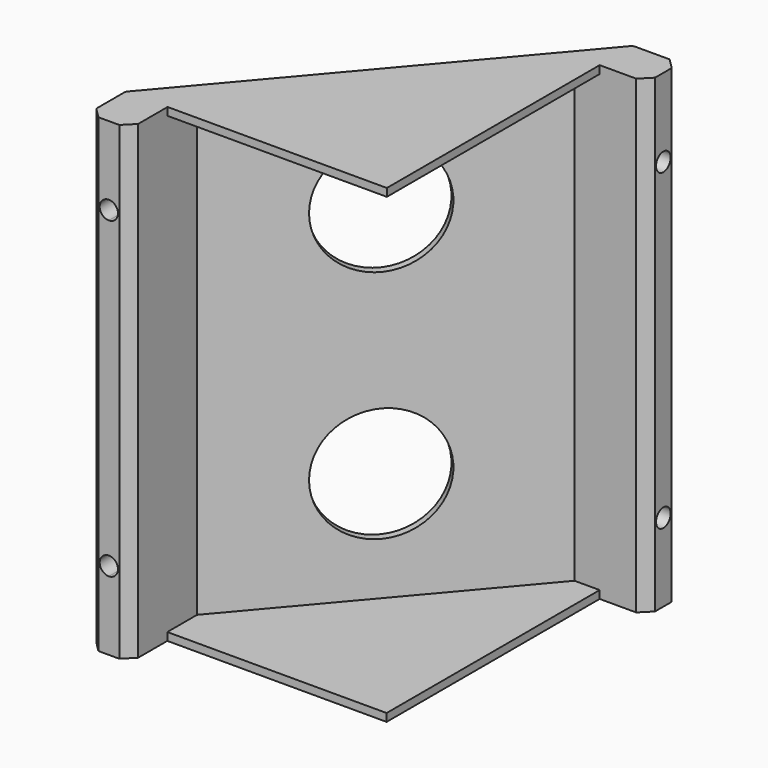
from build123d import *

# Parameters (mm, degrees)
F1_DEPTH  = 90
F2_R      = 11
F3_DEPTH  = 25
F5_DEPTH  = 25
F6_R      = 1.75
F7_DEPTH  = 25
F9_R      = 3
F10_DEPTH = 25
F12_R     = 3
F13_DEPTH = 25
F14_SIZE  = 2
F15_R     = 1
F17_DEPTH = 1.5
F19_DEPTH = 1.5


with BuildPart() as f1:
    # F0 (on Top) → F1 (new body)
    with BuildSketch(Plane.XY):
        Polygon((70, 89), (61, 89), (11, 30), (11, 21), (19, 21), (19, 30), (19, 33.3303359461), (19, 37.1198922439), (56.1865319967, 81), (61, 81), (70, 81), align=None)
    extrude(amount=F1_DEPTH)

    # F2 (on face) → F3 (cut)
    with BuildSketch(Plane(origin=(-8.3947500418, 7.1141949507, 0), x_dir=(-0.6465216954, -0.7628956006, 0), z_dir=(-0.7628956006, 0.6465216954, 0))):
        with Locations((-68.6670692686, 67.5)):
            Circle(F2_R)
        with Locations((-68.6670692686, 22.5)):
            Circle(F2_R)
    extrude(amount=-F3_DEPTH, mode=Mode.SUBTRACT)

    # F4 (on face) → F5 (cut)
    with BuildSketch(Plane.XZ.offset(-21)):
        with BuildLine():
            ThreePointArc((16.75, 75), (16.2374368671, 76.2374368671), (15, 76.75))
            Line((15, 76.75), (15, 73.25))
            ThreePointArc((15, 73.25), (16.2374368671, 73.7625631329), (16.75, 75))
        make_face()
        with BuildLine():
            ThreePointArc((16.75, 15), (16.2374368671, 16.2374368671), (15, 16.75))
            Line((15, 16.75), (15, 13.25))
            ThreePointArc((15, 13.25), (16.2374368671, 13.7625631329), (16.75, 15))
        make_face()
        with BuildLine():
            Line((15, 13.25), (15, 16.75))
            ThreePointArc((15, 16.75), (13.25, 15), (15, 13.25))
        make_face()
        with BuildLine():
            Line((15, 73.25), (15, 76.75))
            ThreePointArc((15, 76.75), (13.25, 75), (15, 73.25))
        make_face()
    extrude(amount=-F5_DEPTH, mode=Mode.SUBTRACT)

    # F6 (on face) → F7 (cut)
    with BuildSketch(Plane.YZ.offset(70)):
        with Locations((85, 75)):
            Circle(F6_R)
        with Locations((85, 15)):
            Circle(F6_R)
    extrude(amount=-F7_DEPTH, mode=Mode.SUBTRACT)

    # F9 (on offset) → F10 (cut)
    with BuildSketch(Plane.YZ.offset(65)):
        with Locations((85, 75)):
            Circle(F9_R)
        with Locations((85, 15)):
            Circle(F9_R)
    extrude(amount=-F10_DEPTH, mode=Mode.SUBTRACT)

    # F12 (on offset) → F13 (cut)
    with BuildSketch(Plane.XZ.offset(-26)):
        with Locations((15, 75)):
            Circle(F12_R)
        with Locations((15, 15)):
            Circle(F12_R)
    extrude(amount=-F13_DEPTH, mode=Mode.SUBTRACT)

    # F14
    f14_edges = [f1.edges().sort_by_distance(p)[0] for p in [
        (70, 81, 45),
        (70, 89, 45),
        (19, 21, 45),
        (11, 21, 45),
    ]]
    chamfer(f14_edges, length=F14_SIZE)

    # F15
    f15_edges = [f1.edges().sort_by_distance(p)[0] for p in [
        (61, 89, 45),
        (11, 30, 45),
    ]]
    fillet(f15_edges, radius=F15_R)

    # F16 (on face) → F17 (join)
    with BuildSketch(Plane.XY.offset(90)):
        Polygon((19, 37.1198922439), (19, 30.0599461219), (61, 30.0599461219), (61, 81), (56.1865319967, 81), align=None)
    extrude(amount=-F17_DEPTH)

    # F18 (on face) → F19 (join)
    with BuildSketch(Plane.XY):
        Polygon((61, 30), (61, 81), (56.1865319967, 81), (19, 37.1198922439), (19, 30), align=None)
    extrude(amount=F19_DEPTH)


solid = f1.part
